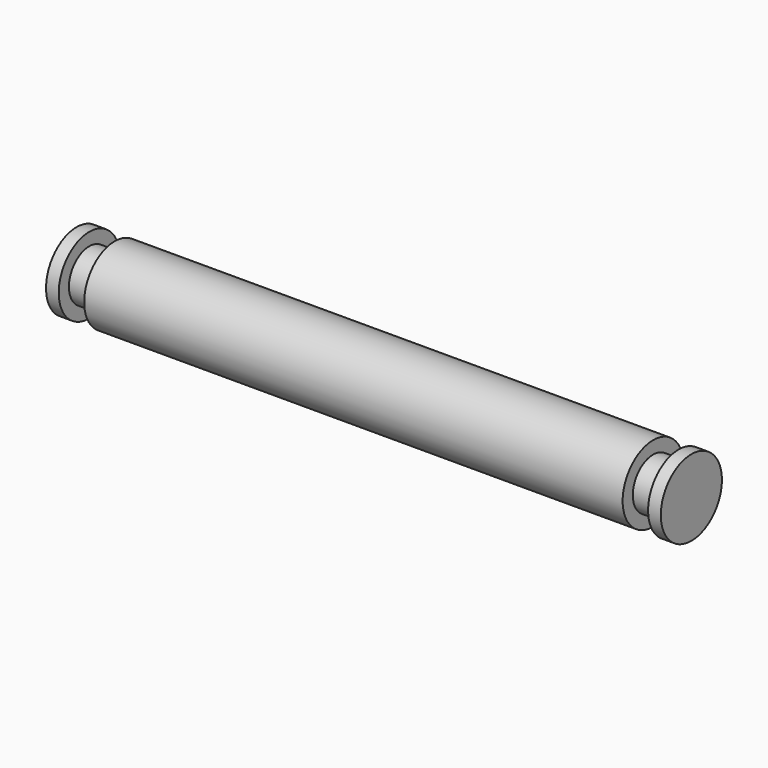
from build123d import *

# Parameters (mm, degrees)
SKETCH_R     = 3
PAD_DEPTH    = 42.3
SKETCH001_R  = 2
PAD001_DEPTH = 2
SKETCH002_R  = 3
PAD002_DEPTH = 1
SKETCH003_R  = 2
PAD003_DEPTH = 2
SKETCH004_R  = 3
PAD004_DEPTH = 1


with BuildPart() as part:
    # Sketch → Pad (new body)
    with BuildSketch(Plane.YZ):
        Circle(SKETCH_R)
    extrude(amount=PAD_DEPTH)

    # Sketch001 (on Face3 of Pad) → Pad001 (join)
    with BuildSketch(Plane.YZ.offset(42.3)):
        Circle(SKETCH001_R)
    extrude(amount=PAD001_DEPTH)

    # Sketch002 (on Face5 of Pad001) → Pad002 (join)
    with BuildSketch(Plane.YZ.offset(44.3)):
        Circle(SKETCH002_R)
    extrude(amount=PAD002_DEPTH)

    # Sketch003 (on Face7 of Pad002) → Pad003 (join)
    with BuildSketch(Plane(origin=(0, 0, 0), x_dir=(0, 1, 0), z_dir=(-1, 0, 0))):
        Circle(SKETCH003_R)
    extrude(amount=PAD003_DEPTH)

    # Sketch004 (on Face9 of Pad003) → Pad004 (join)
    with BuildSketch(Plane(origin=(-2, 0, 0), x_dir=(0, 1, 0), z_dir=(-1, 0, 0))):
        Circle(SKETCH004_R)
    extrude(amount=PAD004_DEPTH)


solid = part.part
